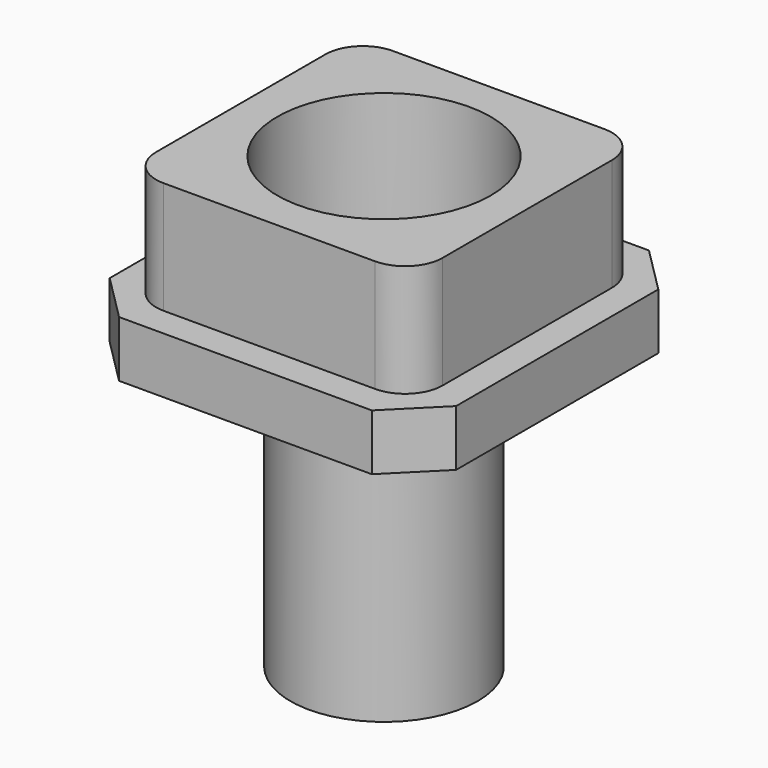
from build123d import *

# Parameters (mm, degrees)
PAD_DEPTH    = 3
SKETCH001_W  = 15.3
SKETCH001_H  = 15.3
SKETCH001_R  = 5.7
PAD001_DEPTH = 6
SKETCH002_R  = 5
PAD002_DEPTH = 15
SKETCH003_R  = 1.58
POCKET_DEPTH = 8
FILLET_R     = 2


with BuildPart() as part:
    # Sketch → Pad (new body)
    with BuildSketch(Plane.XY):
        Polygon((-9.25, 6.75), (-6.75, 9.25), (6.75, 9.25), (9.25, 6.75), (9.25, -6.75), (6.75, -9.25), (-6.75, -9.25), (-9.25, -6.75), align=None)
    extrude(amount=PAD_DEPTH)

    # Sketch001 → Pad001 (new body)
    with BuildSketch(Plane.XY.offset(3)):
        Rectangle(SKETCH001_W, SKETCH001_H)
        Circle(SKETCH001_R, mode=Mode.SUBTRACT)
    extrude(amount=PAD001_DEPTH)

    # Sketch002 → Pad002 (new body)
    with BuildSketch(Plane(origin=(0, 0, 0), x_dir=(1, 0, 0), z_dir=(0, 0, -1))):
        Circle(SKETCH002_R)
    extrude(amount=PAD002_DEPTH)

    # Sketch003 → Pocket (cut)
    with BuildSketch(Plane(origin=(0, 0, -15), x_dir=(1, 0, 0), z_dir=(0, 0, -1))):
        Circle(SKETCH003_R)
    extrude(amount=-POCKET_DEPTH, mode=Mode.SUBTRACT)

    # Fillet
    fillet_edges = [part.edges().sort_by_distance(p)[0] for p in [
        (-7.65, -7.65, 6),
        (7.65, -7.65, 6),
        (-7.65, 7.65, 6),
        (7.65, 7.65, 6),
    ]]
    fillet(fillet_edges, radius=FILLET_R)


solid = part.part
